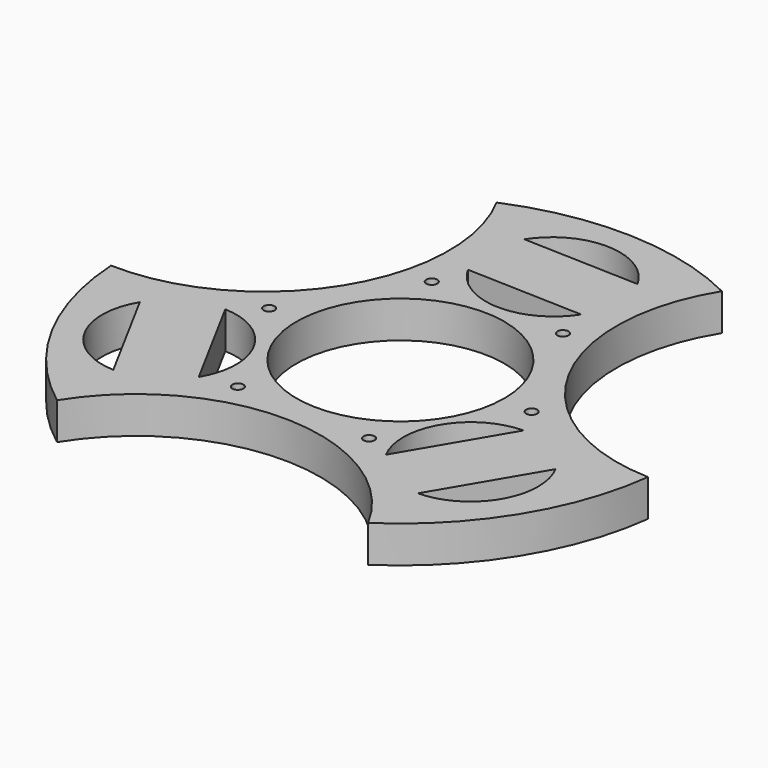
from build123d import *

# Parameters (mm, degrees)
F0_R     = 0.762
F0_R_2   = 14.3129
F1_DEPTH = 5.08


with BuildPart() as f1:
    # F0 (on Top) → F1 (new body)
    with BuildSketch(Plane.XY):
        with BuildLine():
            ThreePointArc((37.814819, -4.652899), (16.218364, 8.71367), (16.993927, 34.100094))
            ThreePointArc((16.993927, 34.100094), (1.190918, 38.081383), (-14.829981, 35.095322))
            ThreePointArc((-14.829981, 35.095322), (-15.650884, 9.718876), (-38.032383, -2.268884))
            ThreePointArc((-38.032383, -2.268884), (-33.588812, -17.983373), (-22.974289, -30.393948))
            ThreePointArc((-22.974289, -30.393948), (-0.586685, -18.405835), (20.992008, -31.795371))
            ThreePointArc((20.992008, -31.795371), (32.384242, -20.071643), (37.814819, -4.652899))
        make_face()
        with BuildLine():
            ThreePointArc((-22.674204, -21.077907), (-30.514378, -16.211576), (-30.292149, -6.986604))
            Line((-30.292149, -6.986604), (-22.674204, -21.077907))
        make_face(mode=Mode.SUBTRACT)
        with Locations((-9.776836, -15.761217)):
            Circle(F0_R, mode=Mode.SUBTRACT)
        with BuildLine():
            ThreePointArc((-22.077247, -2.545519), (-14.247146, -7.417295), (-14.459302, -16.636821))
            Line((-14.459302, -16.636821), (-22.077247, -2.545519))
        make_face(mode=Mode.SUBTRACT)
        with Locations((8.761197, -16.347597)):
            Circle(F0_R, mode=Mode.SUBTRACT)
        with BuildLine():
            ThreePointArc((12.561953, -18.186712), (12.756508, -9.109725), (20.600149, -4.537325))
            Line((20.600149, -4.537325), (12.561953, -18.186712))
        make_face(mode=Mode.SUBTRACT)
        with Locations((18.538033, -0.58638)):
            Circle(F0_R, mode=Mode.SUBTRACT)
        with BuildLine():
            Line((20.866679, -23.077409), (28.904875, -9.428021))
            ThreePointArc((28.904875, -9.428021), (28.701601, -18.499874), (20.866679, -23.077409))
        make_face(mode=Mode.SUBTRACT)
        with Locations((-18.538033, 0.58638)):
            Circle(F0_R, mode=Mode.SUBTRACT)
        with Locations((-8.761197, 16.347597)):
            Circle(F0_R, mode=Mode.SUBTRACT)
        Circle(F0_R_2, mode=Mode.SUBTRACT)
        with BuildLine():
            ThreePointArc((8.55484, 20.415134), (0.392702, 16.148838), (-7.463453, 20.955355))
            Line((-7.463453, 20.955355), (8.55484, 20.415134))
        make_face(mode=Mode.SUBTRACT)
        with Locations((9.776836, 15.761217)):
            Circle(F0_R, mode=Mode.SUBTRACT)
        with BuildLine():
            Line((8.8691, 29.733366), (-7.149193, 30.273587))
            ThreePointArc((-7.149193, 30.273587), (1.013642, 34.560545), (8.8691, 29.733366))
        make_face(mode=Mode.SUBTRACT)
    extrude(amount=F1_DEPTH)


solid = f1.part
